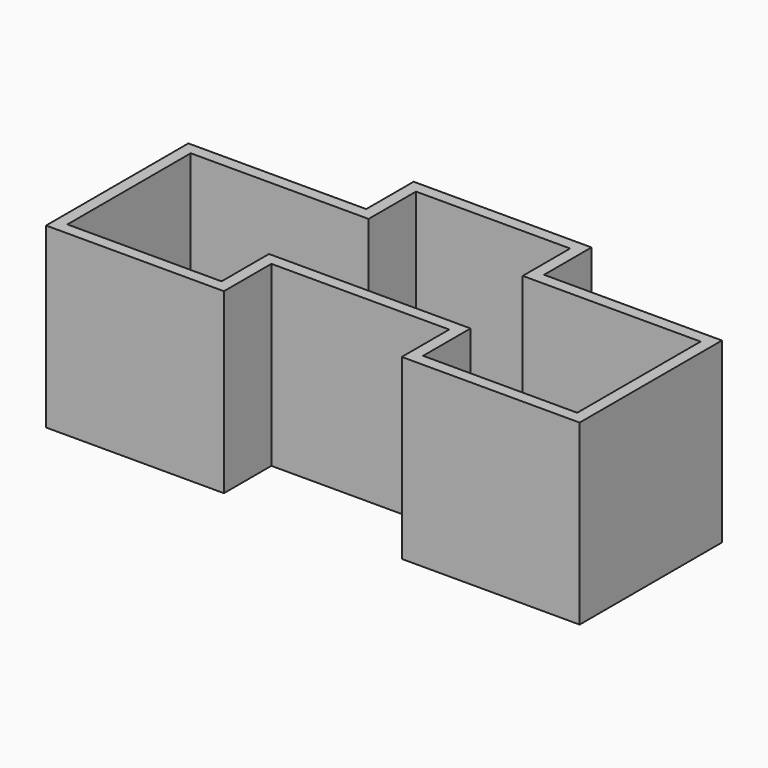
from build123d import *

# Parameters (mm, degrees)
F2_DEPTH = 15


with BuildPart() as f2:
    # F1 (on Top) → F2 (new body)
    with BuildSketch(Plane.XY):
        Polygon((-39.3307432532, 0), (-24.3307432532, 0), (-24.3307432532, 5), (-24.3307432532, 6), (-25.3307432532, 6), (-25.3307432532, 1), (-38.3307432532, 1), (-38.3307432532, 14), (-25.3307432532, 14), (-24.3307432532, 14), (-24.3307432532, 15), (-39.3307432532, 15), align=None)
        Polygon((-24.3307432532, 6), (-24.3307432532, 5), (-9.3307432532, 5), (-9.3307432532, 6), (-10.3307432532, 6), (-23.3307432532, 6), align=None)
        Polygon((-9.3307432532, 6), (-9.3307432532, 5), (-9.3307432532, 0), (5.6692567468, 0), (5.6692567468, 15), (-9.3307432532, 15), (-9.3307432532, 14), (-8.3307432532, 14), (4.6692567468, 14), (4.6692567468, 1), (-8.3307432532, 1), (-8.3307432532, 6), align=None)
        Polygon((-24.3307432532, 20), (-24.3307432532, 15), (-24.3307432532, 14), (-23.3307432532, 14), (-23.3307432532, 19), (-10.3307432532, 19), (-10.3307432532, 14), (-9.3307432532, 14), (-9.3307432532, 15), (-9.3307432532, 20), align=None)
    extrude(amount=F2_DEPTH)


solid = f2.part
